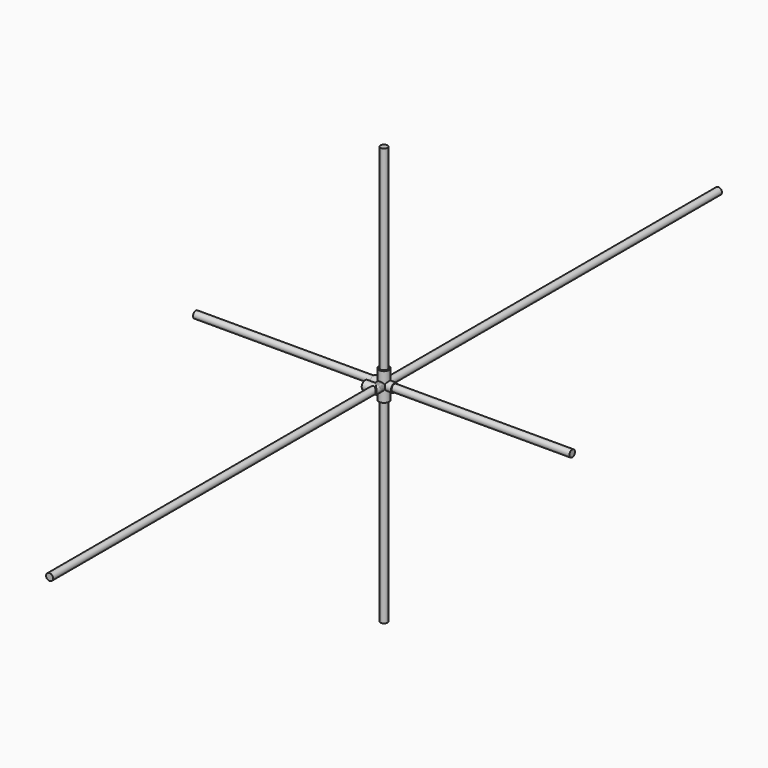
from build123d import *

# Parameters (mm, degrees)
F0_R      = 12.7
F1_DEPTH  = 1524
F3_R      = 15.875
F5_R      = 12.7
F6_DEPTH  = 762
F7_R      = 15.875
F8_DEPTH  = 38.1
F9_R      = 15.875
F10_DEPTH = 38.1
F11_R     = 19.05
F12_DEPTH = 50.8
F13_R     = 15.875
F14_DEPTH = 38.1
F15_R     = 12.7
F16_DEPTH = 685.8


with BuildPart() as f1:
    # F0 (on Front) → F1 (new body, symmetric)
    with BuildSketch(Plane.XZ):
        Circle(F0_R)
    extrude(amount=F1_DEPTH, both=True)


with BuildPart() as f4:
    # F4: sweep along a path in F2
    with BuildLine(Plane.XY) as f4_path:
        Line((0, 0), (0, -38.1))
        Line((0, -38.1), (-38.1, -38.1))
    # F3 (on Front) → F4 (sweep)
    with BuildSketch(Plane.XZ):
        Circle(F3_R)
    sweep(path=f4_path.line, transition=Transition.RIGHT)


with BuildPart() as f6:
    # F5 (on Top) → F6 (new body, symmetric)
    with BuildSketch(Plane.XY):
        Circle(F5_R)
    extrude(amount=F6_DEPTH, both=True)


with BuildPart() as f8:
    # F7 (on Right) → F8 (new body, symmetric)
    with BuildSketch(Plane.YZ):
        Circle(F7_R)
    extrude(amount=F8_DEPTH, both=True)

    # F9 (on Top) → F10 (join)
    with BuildSketch(Plane.XY):
        Circle(F9_R)
    extrude(amount=F10_DEPTH)


with BuildPart() as f12:
    # F11 (on Top) → F12 (new body, symmetric)
    with BuildSketch(Plane.XY):
        Circle(F11_R)
    extrude(amount=F12_DEPTH, both=True)

    # F13 (on Front) → F14 (join)
    with BuildSketch(Plane.XZ):
        Circle(F13_R)
    extrude(amount=F14_DEPTH)


with BuildPart() as f16:
    # F15 (on Right) → F16 (new body, symmetric)
    with BuildSketch(Plane.YZ):
        Circle(F15_R)
    extrude(amount=F16_DEPTH, both=True)


solid = Compound([f1.part, f4.part, f6.part, f8.part, f12.part, f16.part])
